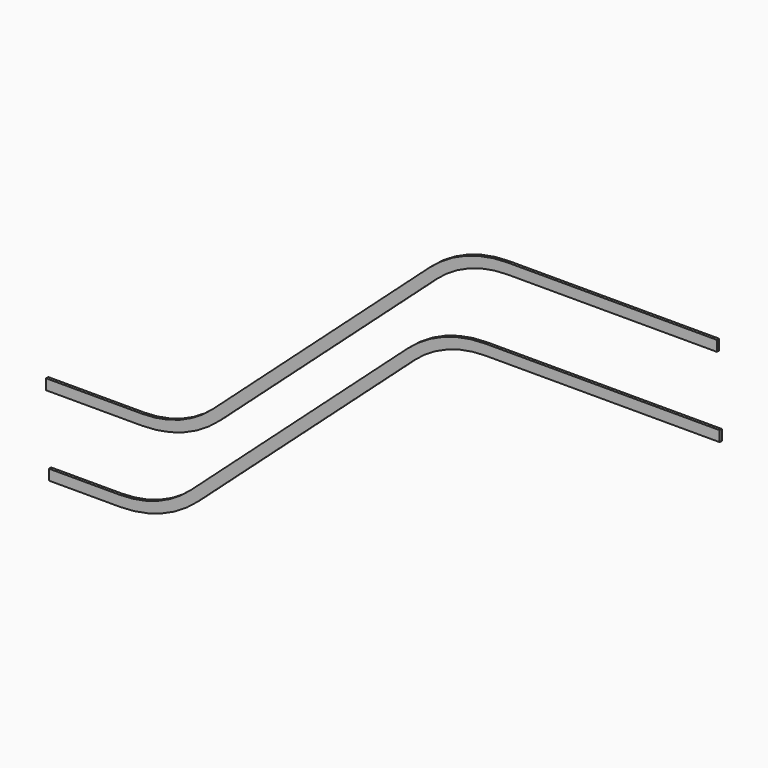
from build123d import *

# Parameters (mm, degrees)
F1_DEPTH = 10


with BuildPart() as f1:
    # F0 (on Front) → F1 (new body)
    with BuildSketch(Plane.XZ):
        with BuildLine():
            Line((-404.435029, 309.564971), (-404.435029, 271.564971))
            Line((-404.435029, 271.564971), (-57.980643, 271.564971))
            ThreePointArc((-57.980643, 271.564971), (92.175528, 299.394772), (222.385081, 379.187289))
            Line((222.385081, 379.187289), (1003.225288, 1082.25897))
            ThreePointArc((1003.225288, 1082.25897), (1121.625861, 1154.814934), (1258.164049, 1180.120791))
            Line((1258.164049, 1180.120791), (2014.618435, 1180.120791))
            Line((2014.618435, 1180.120791), (2014.618435, 1218.120791))
            Line((2014.618435, 1218.120791), (1258.164049, 1218.120791))
            ThreePointArc((1258.164049, 1218.120791), (1108.007878, 1190.29099), (977.798325, 1110.498473))
            Line((977.798325, 1110.498473), (196.958118, 407.426793))
            ThreePointArc((196.958118, 407.426793), (78.557546, 334.870829), (-57.980643, 309.564971))
            Line((-57.980643, 309.564971), (-404.435029, 309.564971))
        make_face()
        with BuildLine():
            Line((-137.980643, 26.064971), (-394.435029, 26.064971))
            Line((-394.435029, 26.064971), (-394.435029, -11.935029))
            Line((-394.435029, -11.935029), (-137.980643, -11.935029))
            ThreePointArc((-137.980643, -11.935029), (12.175528, 15.894772), (142.385081, 95.687289))
            Line((142.385081, 95.687289), (923.225288, 798.75897))
            ThreePointArc((923.225288, 798.75897), (1041.625861, 871.314934), (1178.164049, 896.620791))
            Line((1178.164049, 896.620791), (2024.618435, 896.620791))
            Line((2024.618435, 896.620791), (2024.618435, 934.620791))
            Line((2024.618435, 934.620791), (1178.164049, 934.620791))
            ThreePointArc((1178.164049, 934.620791), (1028.007878, 906.79099), (897.798325, 826.998473))
            Line((897.798325, 826.998473), (116.958118, 123.926793))
            ThreePointArc((116.958118, 123.926793), (-1.442454, 51.370829), (-137.980643, 26.064971))
        make_face()
    extrude(amount=F1_DEPTH)


solid = f1.part
